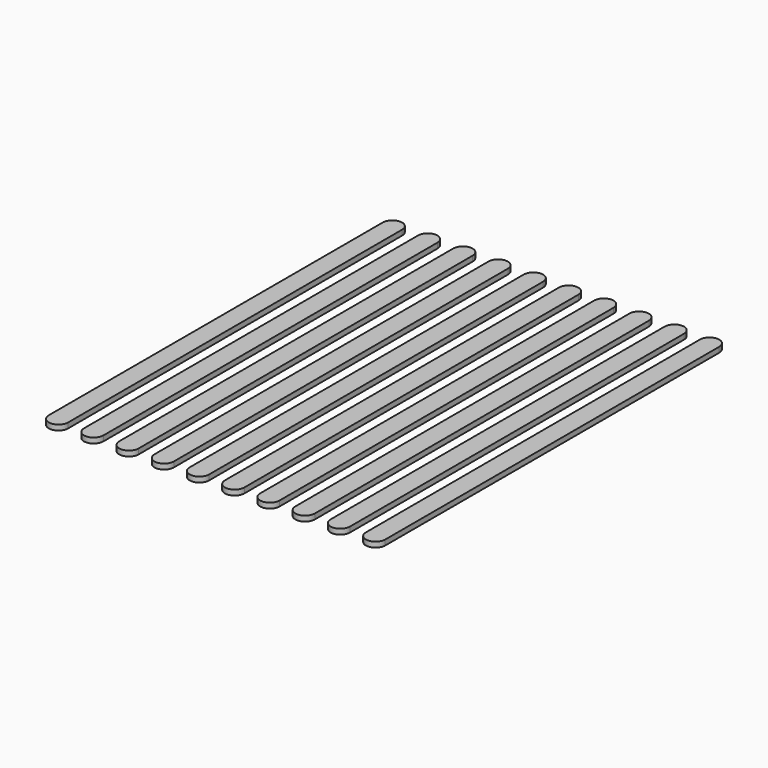
from build123d import *

# Parameters (mm, degrees)
F1_DEPTH = 1.5


with BuildPart() as f1:
    # F0 (on Top) → F1 (new body)
    with BuildSketch(Plane.XY):
        with BuildLine():
            Line((-2.75, 59.25), (-2.75, -59.25))
            ThreePointArc((-2.75, -59.25), (0, -62), (2.75, -59.25))
            Line((2.75, -59.25), (2.75, 59.25))
            ThreePointArc((2.75, 59.25), (0, 62), (-2.75, 59.25))
        make_face()
        with BuildLine():
            ThreePointArc((7.25, -59.25), (10, -62), (12.75, -59.25))
            Line((12.75, -59.25), (12.75, 59.25))
            ThreePointArc((12.75, 59.25), (10, 62), (7.25, 59.25))
            Line((7.25, 59.25), (7.25, -59.25))
        make_face()
        with BuildLine():
            ThreePointArc((17.25, -59.25), (20, -62), (22.75, -59.25))
            Line((22.75, -59.25), (22.75, 59.25))
            ThreePointArc((22.75, 59.25), (20, 62), (17.25, 59.25))
            Line((17.25, 59.25), (17.25, -59.25))
        make_face()
        with BuildLine():
            ThreePointArc((27.25, -59.25), (30, -62), (32.75, -59.25))
            Line((32.75, -59.25), (32.75, 59.25))
            ThreePointArc((32.75, 59.25), (30, 62), (27.25, 59.25))
            Line((27.25, 59.25), (27.25, -59.25))
        make_face()
        with BuildLine():
            ThreePointArc((37.25, -59.25), (40, -62), (42.75, -59.25))
            Line((42.75, -59.25), (42.75, 59.25))
            ThreePointArc((42.75, 59.25), (40, 62), (37.25, 59.25))
            Line((37.25, 59.25), (37.25, -59.25))
        make_face()
        with BuildLine():
            ThreePointArc((47.25, -59.25), (50, -62), (52.75, -59.25))
            Line((52.75, -59.25), (52.75, 59.25))
            ThreePointArc((52.75, 59.25), (50, 62), (47.25, 59.25))
            Line((47.25, 59.25), (47.25, -59.25))
        make_face()
        with BuildLine():
            ThreePointArc((57.25, -59.25), (60, -62), (62.75, -59.25))
            Line((62.75, -59.25), (62.75, 59.25))
            ThreePointArc((62.75, 59.25), (60, 62), (57.25, 59.25))
            Line((57.25, 59.25), (57.25, -59.25))
        make_face()
        with BuildLine():
            ThreePointArc((67.25, -59.25), (70, -62), (72.75, -59.25))
            Line((72.75, -59.25), (72.75, 59.25))
            ThreePointArc((72.75, 59.25), (70, 62), (67.25, 59.25))
            Line((67.25, 59.25), (67.25, -59.25))
        make_face()
        with BuildLine():
            ThreePointArc((77.25, -59.25), (80, -62), (82.75, -59.25))
            Line((82.75, -59.25), (82.75, 59.25))
            ThreePointArc((82.75, 59.25), (80, 62), (77.25, 59.25))
            Line((77.25, 59.25), (77.25, -59.25))
        make_face()
        with BuildLine():
            ThreePointArc((87.25, -59.25), (90, -62), (92.75, -59.25))
            Line((92.75, -59.25), (92.75, 59.25))
            ThreePointArc((92.75, 59.25), (90, 62), (87.25, 59.25))
            Line((87.25, 59.25), (87.25, -59.25))
        make_face()
    extrude(amount=F1_DEPTH)


solid = f1.part
